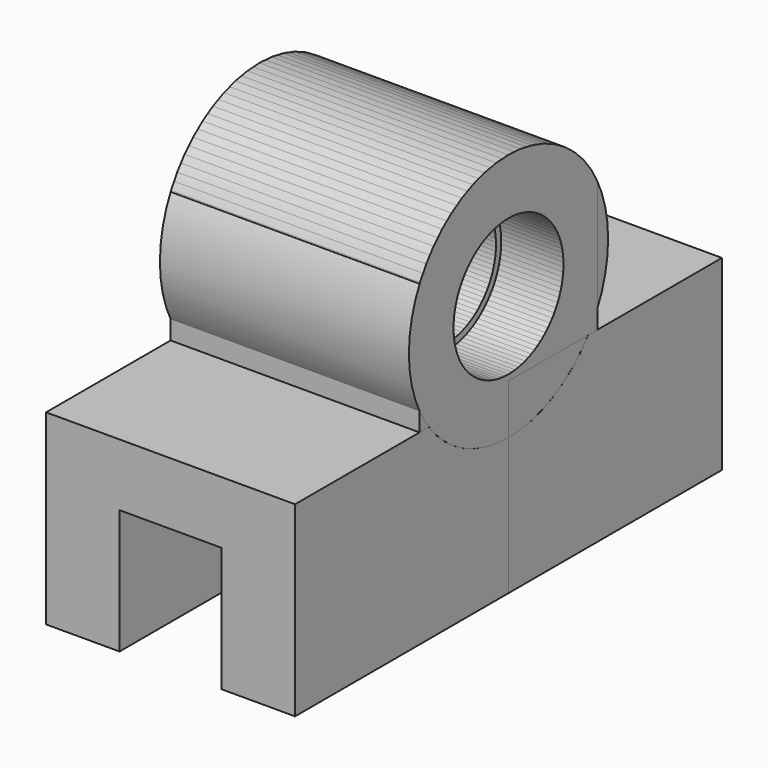
from build123d import *

# Parameters (mm, degrees)
F0_R          = 11.05
F1_DEPTH      = 20
F1_DEPTH_BACK = 20
F0_R_2        = 10
F2_DEPTH      = 10
F2_DEPTH_BACK = 10
F4_DEPTH      = 20
F4_DEPTH_BACK = 20
F5_W          = 16.4
F5_H          = 42.8605710995
F6_DEPTH      = 20


with BuildPart() as f1:
    # F0 (on Right) → F1 (new body, two sides)
    with BuildSketch(Plane.YZ) as f1_sk:
        with BuildLine():
            ThreePointArc((0, -20), (14.1421356237, -14.1421356237), (20, 0))
            ThreePointArc((20, 0), (4.6253960917, 19.4577930659), (-17.8605710995, 9))
            Line((-17.8605710995, 9), (-17.8605710995, -9))
            ThreePointArc((-17.8605710995, -9), (-16.9966046255, -10.5411304519), (-16, -12))
            Line((-16, -12), (0, -12))
            Line((0, -12), (0, -20))
        make_face()
        Circle(F0_R, mode=Mode.SUBTRACT)
        with BuildLine():
            ThreePointArc((-16, -12), (-16.9966046255, -10.5411304519), (-17.8605710995, -9))
            Line((-17.8605710995, -9), (-17.8605710995, -12))
            Line((-17.8605710995, -12), (-16, -12))
        make_face()
    extrude(amount=F1_DEPTH)
    extrude(f1_sk.sketch, amount=-F1_DEPTH_BACK)

    # F0 (on Right) → F2 (join, two sides)
    with BuildSketch(Plane.YZ) as f2_sk:
        Circle(F0_R)
        Circle(F0_R_2, mode=Mode.SUBTRACT)
    extrude(amount=F2_DEPTH)
    extrude(f2_sk.sketch, amount=-F2_DEPTH_BACK)


with BuildPart() as f3_1:
    # F3: instance of F1
    add(f1.part.mirror(Plane.XZ))


with BuildPart() as f4:
    # F0 (on Right) → F4 (new body, two sides)
    with BuildSketch(Plane.YZ) as f4_sk:
        with BuildLine():
            Line((0, -42), (0, -20))
            ThreePointArc((0, -20), (-8.94427191, -17.88854382), (-16, -12))
            Line((-16, -12), (-17.8605710995, -12))
            Line((-17.8605710995, -12), (-42.8605710995, -12))
            Line((-42.8605710995, -12), (-42.8605710995, -42))
            Line((-42.8605710995, -42), (0, -42))
        make_face()
    extrude(amount=-F4_DEPTH)
    extrude(f4_sk.sketch, amount=F4_DEPTH_BACK)

    # F5 (on face) → F6 (cut)
    with BuildSketch(Plane(origin=(0, 0, -42), x_dir=(1, 0, 0), z_dir=(0, 0, -1))):
        with Locations((0, 21.4302855497)):
            Rectangle(F5_W, F5_H)
    extrude(amount=-F6_DEPTH, mode=Mode.SUBTRACT)


with BuildPart() as f7_1:
    # F7: instance of F4
    add(f4.part.mirror(Plane.XZ))


solid = Compound([f1.part, f3_1.part, f4.part, f7_1.part])
